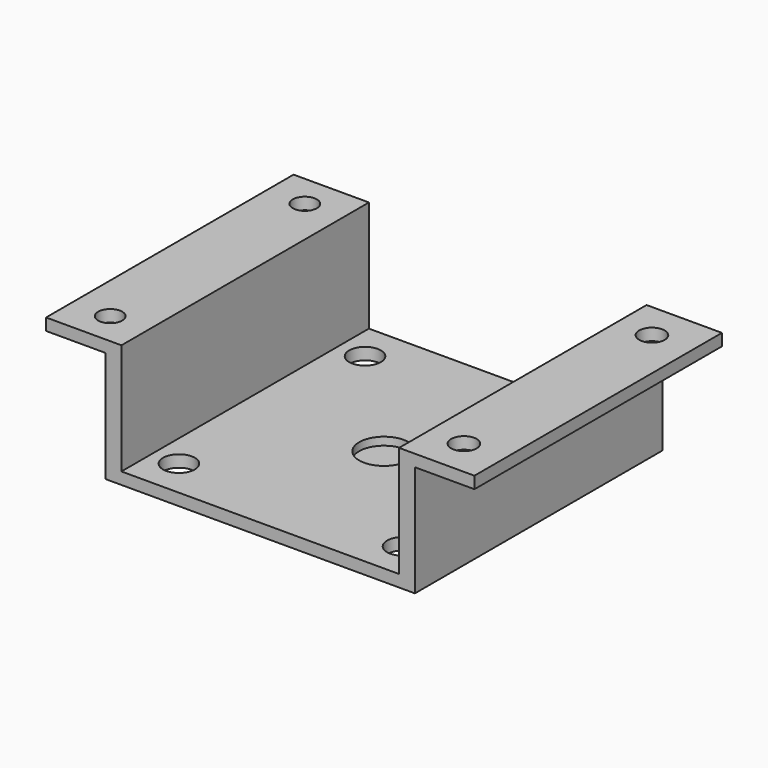
from build123d import *

# Parameters (mm, degrees)
F0_W      = 78
F0_H      = 3
F1_DEPTH  = 78
F2_W      = 4
F2_H      = 78
F3_DEPTH  = 28
F4_W      = 4
F4_H      = 78
F5_DEPTH  = 28
F6_W      = 78
F6_H      = 3
F7_DEPTH  = 15
F8_W      = 78
F8_H      = 3
F9_DEPTH  = 15
F12_R     = 3.217192
F13_DEPTH = 22.5
F14_R     = 3.037913
F15_DEPTH = 18.4
F10_R     = 6.245135
F16_DEPTH = 2
F11_R     = 4
F17_DEPTH = 12.6


with BuildPart() as f1:
    # F0 (on Front) → F1 (new body)
    with BuildSketch(Plane.XZ):
        with Locations((4.030592, -1.5)):
            Rectangle(F0_W, F0_H)
    extrude(amount=F1_DEPTH)

    # F2 (on face) → F3 (join)
    with BuildSketch(Plane.XY):
        with Locations((-32.969408, -39)):
            Rectangle(F2_W, F2_H)
    extrude(amount=F3_DEPTH)

    # F4 (on face) → F5 (join)
    with BuildSketch(Plane.XY):
        with Locations((41.030592, -39)):
            Rectangle(F4_W, F4_H)
    extrude(amount=F5_DEPTH)

    # F6 (on face) → F7 (join)
    with BuildSketch(Plane(origin=(-34.969408, 0, 0), x_dir=(0, -1, 0), z_dir=(-1, 0, 0))):
        with Locations((39, 26.5)):
            Rectangle(F6_W, F6_H)
    extrude(amount=F7_DEPTH)

    # F8 (on face) → F9 (join)
    with BuildSketch(Plane.YZ.offset(43.030592)):
        with Locations((-39, 26.5)):
            Rectangle(F8_W, F8_H)
    extrude(amount=F9_DEPTH)

    # F12 (on face) → F13 (cut)
    with BuildSketch(Plane.XY.offset(28)):
        with Locations((47.882639, -9.369526)):
            Circle(F12_R)
        with Locations((47.882639, -68.630474)):
            Circle(F12_R)
    extrude(amount=-F13_DEPTH, mode=Mode.SUBTRACT)

    # F14 (on face) → F15 (cut)
    with BuildSketch(Plane.XY.offset(28)):
        with Locations((-40.469408, -8.328774)):
            Circle(F14_R)
        with Locations((-40.469408, -69.671226)):
            Circle(F14_R)
    extrude(amount=-F15_DEPTH, mode=Mode.SUBTRACT)

    # F10 (on face) → F16 (cut)
    with BuildSketch(Plane.XY):
        with Locations((4.030592, -39)):
            Circle(F10_R)
    extrude(amount=-F16_DEPTH, mode=Mode.SUBTRACT)

    # F11 (on face) → F17 (cut)
    with BuildSketch(Plane.XY):
        with Locations((-24.21356, -9.677462)):
            Circle(F11_R)
        with Locations((32.274744, -9.677462)):
            Circle(F11_R)
        with Locations((-24.21356, -68.322538)):
            Circle(F11_R)
        with Locations((32.274744, -68.322538)):
            Circle(F11_R)
    extrude(amount=-F17_DEPTH, mode=Mode.SUBTRACT)


solid = f1.part
